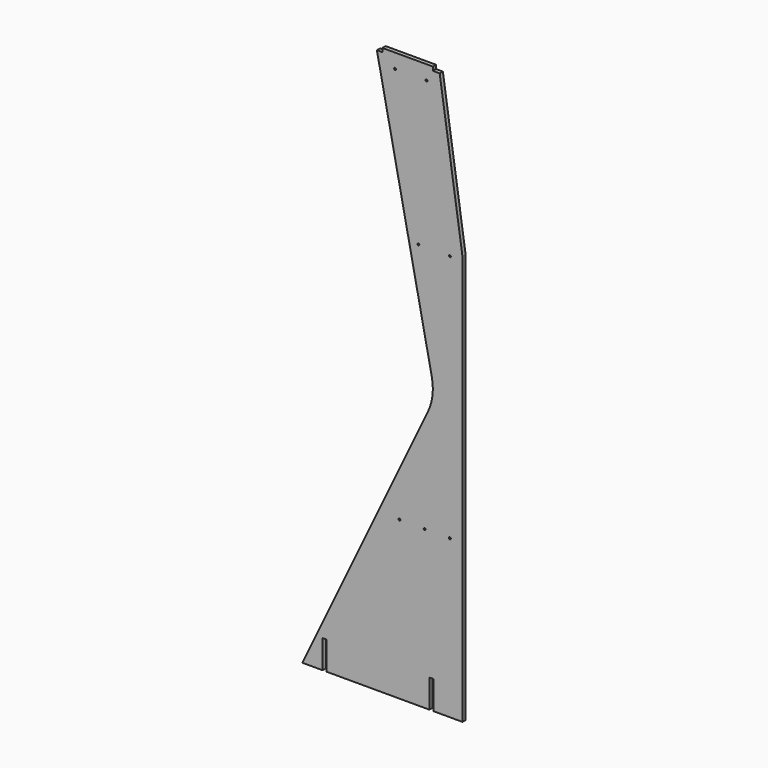
from build123d import *

# Parameters (mm, degrees)
F1_DEPTH = 3.15
F2_W     = 30.610543
F2_H     = 6
F2_W_2   = 33.654636
F2_W_3   = 6.6
F2_H_2   = 45
F3_DEPTH = 6.301
F5_D     = 3


with BuildPart() as f1:
    # F0 (on Front) → F1 (new body, symmetric)
    with BuildSketch(Plane.XZ):
        with BuildLine():
            Line((90, 450), (-10, 450))
            Line((-10, 450), (78.390962, 15.964244))
            ThreePointArc((78.390962, 15.964244), (79.395078, -9.81945), (72.139537, -34.581603))
            Line((72.139537, -34.581603), (-127, -450))
            Line((-127, -450), (127, -450))
            Line((127, -450), (127, 200))
            Line((127, 200), (90, 450))
        make_face()
    extrude(amount=F1_DEPTH, both=True)

    # F2 (on face) → F3 (cut, through all)
    with BuildSketch(Plane.XZ.offset(3.15)):
        with Locations((-15.305271, 447)):
            Rectangle(F2_W, F2_H)
        with Locations((96.827318, 447)):
            Rectangle(F2_W_2, F2_H)
        with Locations((-91.615785, -427.5)):
            Rectangle(F2_W_3, F2_H_2)
        with Locations((77.765864, -427.5)):
            Rectangle(F2_W_3, F2_H_2)
    extrude(amount=-F3_DEPTH, mode=Mode.SUBTRACT)

    # F5 (through all)
    with Locations(Plane.XZ.offset(3.15)):
        with Locations((20, 427.3), (70, 427.3), (107, 194), (57, 194), (107, -200), (67, -200), (27, -200)):
            Hole(F5_D / 2)


solid = f1.part
